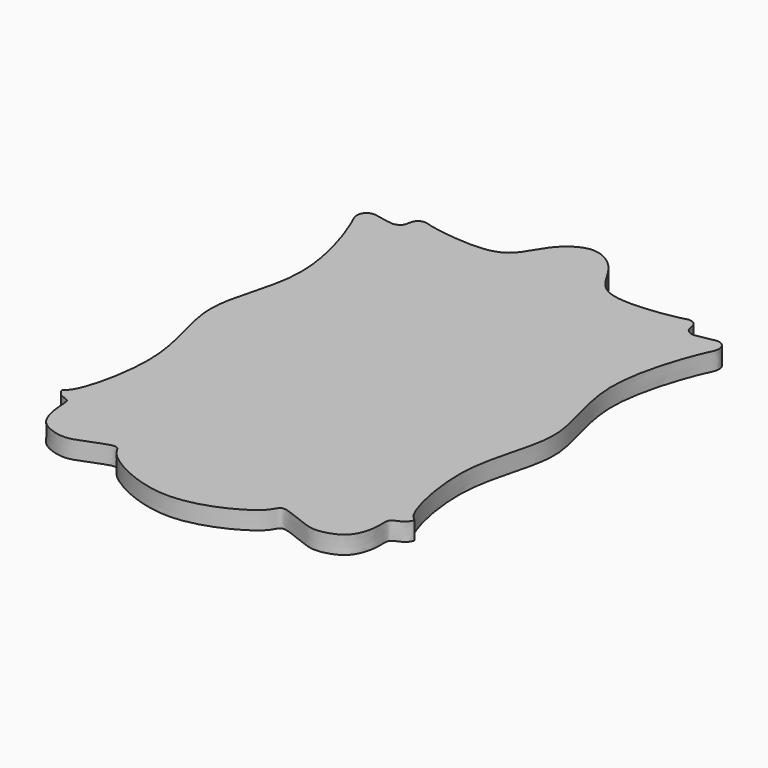
from build123d import *

# Parameters (mm, degrees)
F1_DEPTH = 20


with BuildPart() as f1:
    # F0 (on Top) → F1 (new body)
    with BuildSketch(Plane.XY):
        with BuildLine():
            add(Edge.make_bspline(
                [(-173, 101), (-172.7126396484, 139.6163409516), (-195.2582840005, 200.7191518637), (-202.1292967406, 211.921288247), (-201.2469428285, 221.2327521967), (-194.2606205494, 226.5531902122), (-185.0317472803, 225.2422973259), (-169.3047030947, 221.288248563), (-162.9962831208, 222.5350643238), (-157.0471349125, 226.8499500295), (-157.0124266662, 239.2190056869), (-146.853132228, 242.7727335071), (-139.493955555, 238.8458421279), (-93.7188409355, 231.8398888273), (-49.7566788389, 236.2036394269), (-35.2575300214, 276.1734688107), (0, 299.7852555956), (35.2575300214, 276.1734688107), (49.7566788389, 236.2036394269), (93.7188409355, 231.8398888273), (139.4939555549, 238.8458421279), (146.8531322281, 242.7727335071), (157.0124266657, 239.2190056868), (157.0471349145, 226.8499500301), (162.9962831156, 222.5350643223), (169.3047031194, 221.2882485698), (185.0317471401, 225.2422972872), (194.2606209151, 226.5531903132), (201.2469416042, 221.2327518588), (202.1293018668, 211.9212896619), (195.2582391069, 200.7191394724), (155.9716758543, 94.2439450329), (207.7085440261, -0.2807833694), (159.5145545666, -92.1290134576), (184.7593049397, -197.1804087394), (196.8571496917, -201.3251059817), (195.3440536052, -204.6868605001), (191.4973276656, -211.3444917497), (176.5250756044, -214.2909005454), (180.164190424, -231.44471168), (173.4068183688, -257.8724827955), (156.2945642315, -267.7047244452), (139.2908621455, -271.1630997975), (124.5058814182, -267.1139289857), (95.0696539599, -253.8802261871), (89.8509677166, -257.7718329894), (87.3352163727, -261.9719104462), (79.1436235342, -275.5599908502), (-1.50642e-05, -317.4667999657), (-79.1435813776, -275.560002542), (-87.3352619945, -261.971896894), (-89.8508748283, -257.7718607173), (-95.0702955483, -253.88003457), (-124.5000405078, -267.1156735433), (-139.3059253559, -271.1586007246), (-156.2376129959, -267.7217346172), (-173.6584038127, -257.7973393563), (-179.1540558677, -231.7464182634), (-179.1408206405, -216.0043585857), (-181.989288452, -213.2152608267), (-191.4477227678, -211.0262081955), (-195.3808464073, -204.6767050773), (-196.843214158, -201.3289524198), (-184.7774862887, -197.1753903859), (-159.5073399707, -92.1310048056), (-207.7105030099, -0.2802426574), (-173.2856655712, 62.6114086922), (-173, 101)],
                knots=[0, 0, 0, 0, 0.0337339765, 0.04516132, 0.0543561732, 0.0634436227, 0.0735738872, 0.0868717882, 0.0951303322, 0.1034860066, 0.1145444268, 0.1241233942, 0.1333211281, 0.1556292271, 0.1770287028, 0.1976253685, 0.2175662728, 0.2375071771, 0.2581038428, 0.2795033184, 0.3018114175, 0.3110091513, 0.3205881188, 0.3316465389, 0.3400022133, 0.3482607573, 0.3615586583, 0.3716889229, 0.3807763724, 0.3899712255, 0.4013985691, 0.4351325455, 0.4686675674, 0.5022025892, 0.5348632682, 0.5439340686, 0.5490712808, 0.5580629615, 0.569662755, 0.5823725256, 0.599397784, 0.6137340103, 0.6269542271, 0.6405327891, 0.6589008685, 0.6662084264, 0.6729059366, 0.6850178051, 0.7153561695, 0.745694534, 0.7578064025, 0.7645039126, 0.7718114706, 0.79017955, 0.803758112, 0.8169783288, 0.8313145551, 0.8483398134, 0.8610495841, 0.8669961461, 0.877069584, 0.8860612647, 0.8911984769, 0.9002692774, 0.9329299564, 0.9664649782, 1, 1, 1, 1], degree=3))
        make_face()
    extrude(amount=F1_DEPTH)


solid = f1.part
